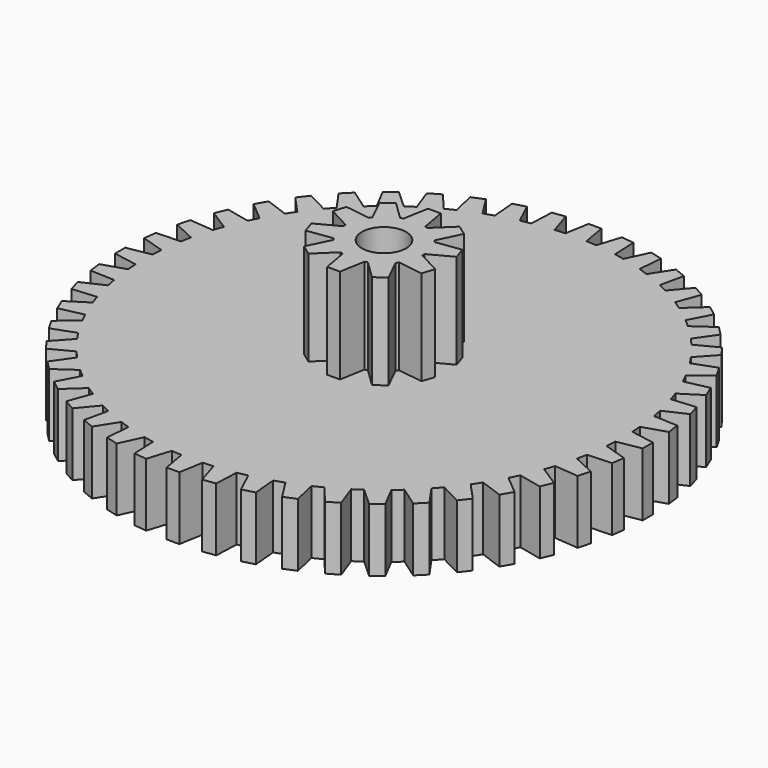
from build123d import *

# Parameters (mm, degrees)
F1_DEPTH = 3
F3_DEPTH = 4.5
F4_R     = 1.05
F5_DEPTH = 7.501


with BuildPart() as f1:
    # F0 (on Top) → F1 (new body)
    with BuildSketch(Plane.XY):
        with BuildLine():
            ThreePointArc((11.332218, -0.98563), (11.350645, -0.743961), (11.36392, -0.501954))
            ThreePointArc((11.36392, -0.501954), (11.37223, -0.251038), (11.375, 0))
            ThreePointArc((11.375, 0), (11.37223, 0.251038), (11.36392, 0.501954))
            ThreePointArc((11.36392, 0.501954), (11.350645, 0.743961), (11.332218, 0.98563))
            ThreePointArc((11.332218, 0.98563), (11.277685, 1.484735), (11.201182, 1.980949))
            ThreePointArc((11.201182, 1.980949), (11.156433, 2.219152), (11.106619, 2.456349))
            ThreePointArc((11.106619, 2.456349), (10.987406, 2.944067), (10.846788, 3.426049))
            ThreePointArc((10.846788, 3.426049), (10.77133, 3.656374), (10.690982, 3.885039))
            ThreePointArc((10.690982, 3.885039), (10.50913, 4.353024), (10.306803, 4.812529))
            ThreePointArc((10.306803, 4.812529), (10.201927, 5.031034), (10.09242, 5.247255))
            ThreePointArc((10.09242, 5.247255), (9.851039, 5.6875), (9.590466, 6.116664))
            ThreePointArc((9.590466, 6.116664), (9.457967, 6.319611), (9.321174, 6.519689))
            ThreePointArc((9.321174, 6.519689), (9.024394, 6.924661), (8.710033, 7.316143))
            ThreePointArc((8.710033, 7.316143), (8.552178, 7.500059), (8.390439, 7.68057))
            ThreePointArc((8.390439, 7.68057), (8.04334, 8.04334), (7.68057, 8.390439))
            ThreePointArc((7.68057, 8.390439), (7.500059, 8.552178), (7.316143, 8.710033))
            ThreePointArc((7.316143, 8.710033), (6.924661, 9.024394), (6.519689, 9.321174))
            ThreePointArc((6.519689, 9.321174), (6.319611, 9.457967), (6.116664, 9.590466))
            ThreePointArc((6.116664, 9.590466), (5.6875, 9.851039), (5.247255, 10.09242))
            ThreePointArc((5.247255, 10.09242), (5.031034, 10.201927), (4.812529, 10.306803))
            ThreePointArc((4.812529, 10.306803), (4.353024, 10.50913), (3.885039, 10.690982))
            ThreePointArc((3.885039, 10.690982), (3.656374, 10.77133), (3.426049, 10.846788))
            ThreePointArc((3.426049, 10.846788), (2.944067, 10.987406), (2.456349, 11.106619))
            ThreePointArc((2.456349, 11.106619), (2.219152, 11.156433), (1.980949, 11.201182))
            ThreePointArc((1.980949, 11.201182), (1.484735, 11.277685), (0.98563, 11.332218))
            ThreePointArc((0.98563, 11.332218), (0.743961, 11.350645), (0.501954, 11.36392))
            ThreePointArc((0.501954, 11.36392), (0, 11.375), (-0.501954, 11.36392))
            ThreePointArc((-0.501954, 11.36392), (-0.743961, 11.350645), (-0.98563, 11.332218))
            ThreePointArc((-0.98563, 11.332218), (-1.484735, 11.277685), (-1.980949, 11.201182))
            ThreePointArc((-1.980949, 11.201182), (-2.219152, 11.156433), (-2.456349, 11.106619))
            ThreePointArc((-2.456349, 11.106619), (-2.944067, 10.987406), (-3.426049, 10.846788))
            ThreePointArc((-3.426049, 10.846788), (-3.656374, 10.77133), (-3.885039, 10.690982))
            ThreePointArc((-3.885039, 10.690982), (-4.353024, 10.50913), (-4.812529, 10.306803))
            ThreePointArc((-4.812529, 10.306803), (-5.031034, 10.201927), (-5.247255, 10.09242))
            ThreePointArc((-5.247255, 10.09242), (-5.6875, 9.851039), (-6.116664, 9.590466))
            ThreePointArc((-6.116664, 9.590466), (-6.319611, 9.457967), (-6.519689, 9.321174))
            ThreePointArc((-6.519689, 9.321174), (-6.924661, 9.024394), (-7.316143, 8.710033))
            ThreePointArc((-7.316143, 8.710033), (-7.500059, 8.552178), (-7.68057, 8.390439))
            ThreePointArc((-7.68057, 8.390439), (-8.04334, 8.04334), (-8.390439, 7.68057))
            ThreePointArc((-8.390439, 7.68057), (-8.552178, 7.500059), (-8.710033, 7.316143))
            ThreePointArc((-8.710033, 7.316143), (-9.024394, 6.924661), (-9.321174, 6.519689))
            ThreePointArc((-9.321174, 6.519689), (-9.457967, 6.319611), (-9.590466, 6.116664))
            ThreePointArc((-9.590466, 6.116664), (-9.851039, 5.6875), (-10.09242, 5.247255))
            ThreePointArc((-10.09242, 5.247255), (-10.201927, 5.031034), (-10.306803, 4.812529))
            ThreePointArc((-10.306803, 4.812529), (-10.50913, 4.353024), (-10.690982, 3.885039))
            ThreePointArc((-10.690982, 3.885039), (-10.77133, 3.656374), (-10.846788, 3.426049))
            ThreePointArc((-10.846788, 3.426049), (-10.987406, 2.944067), (-11.106619, 2.456349))
            ThreePointArc((-11.106619, 2.456349), (-11.156433, 2.219152), (-11.201182, 1.980949))
            ThreePointArc((-11.201182, 1.980949), (-11.277685, 1.484735), (-11.332218, 0.98563))
            ThreePointArc((-11.332218, 0.98563), (-11.350645, 0.743961), (-11.36392, 0.501954))
            ThreePointArc((-11.36392, 0.501954), (-11.375, 0), (-11.36392, -0.501954))
            ThreePointArc((-11.36392, -0.501954), (-11.350645, -0.743961), (-11.332218, -0.98563))
            ThreePointArc((-11.332218, -0.98563), (-11.277685, -1.484735), (-11.201182, -1.980949))
            ThreePointArc((-11.201182, -1.980949), (-11.156433, -2.219152), (-11.106619, -2.456349))
            ThreePointArc((-11.106619, -2.456349), (-10.987406, -2.944067), (-10.846788, -3.426049))
            ThreePointArc((-10.846788, -3.426049), (-10.77133, -3.656374), (-10.690982, -3.885039))
            ThreePointArc((-10.690982, -3.885039), (-10.50913, -4.353024), (-10.306803, -4.812529))
            ThreePointArc((-10.306803, -4.812529), (-10.201927, -5.031034), (-10.09242, -5.247255))
            ThreePointArc((-10.09242, -5.247255), (-9.851039, -5.6875), (-9.590466, -6.116664))
            ThreePointArc((-9.590466, -6.116664), (-9.457967, -6.319611), (-9.321174, -6.519689))
            ThreePointArc((-9.321174, -6.519689), (-9.024394, -6.924661), (-8.710033, -7.316143))
            ThreePointArc((-8.710033, -7.316143), (-8.552178, -7.500059), (-8.390439, -7.68057))
            ThreePointArc((-8.390439, -7.68057), (-8.04334, -8.04334), (-7.68057, -8.390439))
            ThreePointArc((-7.68057, -8.390439), (-7.500059, -8.552178), (-7.316143, -8.710033))
            ThreePointArc((-7.316143, -8.710033), (-6.924661, -9.024394), (-6.519689, -9.321174))
            ThreePointArc((-6.519689, -9.321174), (-6.319611, -9.457967), (-6.116664, -9.590466))
            ThreePointArc((-6.116664, -9.590466), (-5.6875, -9.851039), (-5.247255, -10.09242))
            ThreePointArc((-5.247255, -10.09242), (-5.031034, -10.201927), (-4.812529, -10.306803))
            ThreePointArc((-4.812529, -10.306803), (-4.353024, -10.50913), (-3.885039, -10.690982))
            ThreePointArc((-3.885039, -10.690982), (-3.656374, -10.77133), (-3.426049, -10.846788))
            ThreePointArc((-3.426049, -10.846788), (-2.944067, -10.987406), (-2.456349, -11.106619))
            ThreePointArc((-2.456349, -11.106619), (-2.219152, -11.156433), (-1.980949, -11.201182))
            ThreePointArc((-1.980949, -11.201182), (-1.484735, -11.277685), (-0.98563, -11.332218))
            ThreePointArc((-0.98563, -11.332218), (-0.743961, -11.350645), (-0.501954, -11.36392))
            ThreePointArc((-0.501954, -11.36392), (0, -11.375), (0.501954, -11.36392))
            ThreePointArc((0.501954, -11.36392), (0.743961, -11.350645), (0.98563, -11.332218))
            ThreePointArc((0.98563, -11.332218), (1.484735, -11.277685), (1.980949, -11.201182))
            ThreePointArc((1.980949, -11.201182), (2.219152, -11.156433), (2.456349, -11.106619))
            ThreePointArc((2.456349, -11.106619), (2.944067, -10.987406), (3.426049, -10.846788))
            ThreePointArc((3.426049, -10.846788), (3.656374, -10.77133), (3.885039, -10.690982))
            ThreePointArc((3.885039, -10.690982), (4.353024, -10.50913), (4.812529, -10.306803))
            ThreePointArc((4.812529, -10.306803), (5.031034, -10.201927), (5.247255, -10.09242))
            ThreePointArc((5.247255, -10.09242), (5.6875, -9.851039), (6.116664, -9.590466))
            ThreePointArc((6.116664, -9.590466), (6.319611, -9.457967), (6.519689, -9.321174))
            ThreePointArc((6.519689, -9.321174), (6.924661, -9.024394), (7.316143, -8.710033))
            ThreePointArc((7.316143, -8.710033), (7.500059, -8.552178), (7.68057, -8.390439))
            ThreePointArc((7.68057, -8.390439), (8.04334, -8.04334), (8.390439, -7.68057))
            ThreePointArc((8.390439, -7.68057), (8.552178, -7.500059), (8.710033, -7.316143))
            ThreePointArc((8.710033, -7.316143), (9.024394, -6.924661), (9.321174, -6.519689))
            ThreePointArc((9.321174, -6.519689), (9.457967, -6.319611), (9.590466, -6.116664))
            ThreePointArc((9.590466, -6.116664), (9.851039, -5.6875), (10.09242, -5.247255))
            ThreePointArc((10.09242, -5.247255), (10.201927, -5.031034), (10.306803, -4.812529))
            ThreePointArc((10.306803, -4.812529), (10.50913, -4.353024), (10.690982, -3.885039))
            ThreePointArc((10.690982, -3.885039), (10.77133, -3.656374), (10.846788, -3.426049))
            ThreePointArc((10.846788, -3.426049), (10.987406, -2.944067), (11.106619, -2.456349))
            ThreePointArc((11.106619, -2.456349), (11.156433, -2.219152), (11.201182, -1.980949))
            ThreePointArc((11.201182, -1.980949), (11.277685, -1.484735), (11.332218, -0.98563))
        make_face()
        with BuildLine():
            ThreePointArc((11.375, 0), (11.37223, -0.251038), (11.36392, -0.501954))
            Line((11.36392, -0.501954), (12.496345, -0.302277))
            Line((12.496345, -0.302277), (12.496345, 0.302277))
            Line((12.496345, 0.302277), (11.36392, 0.501954))
            ThreePointArc((11.36392, 0.501954), (11.37223, 0.251038), (11.375, 0))
        make_face()
        with BuildLine():
            Line((12.428892, -1.33141), (11.332218, -0.98563))
            ThreePointArc((11.332218, -0.98563), (11.277685, -1.484735), (11.201182, -1.980949))
            Line((11.201182, -1.980949), (12.349982, -1.930791))
            Line((12.349982, -1.930791), (12.428892, -1.33141))
        make_face()
        with BuildLine():
            ThreePointArc((11.201182, 1.980949), (11.277685, 1.484735), (11.332218, 0.98563))
            Line((11.332218, 0.98563), (12.428892, 1.33141))
            Line((12.428892, 1.33141), (12.349982, 1.930791))
            Line((12.349982, 1.930791), (11.201182, 1.980949))
        make_face()
        with BuildLine():
            Line((12.148777, -2.942315), (11.106619, -2.456349))
            ThreePointArc((11.106619, -2.456349), (10.987406, -2.944067), (10.846788, -3.426049))
            Line((10.846788, -3.426049), (11.992307, -3.526269))
            Line((11.992307, -3.526269), (12.148777, -2.942315))
        make_face()
        with BuildLine():
            ThreePointArc((10.846788, 3.426049), (10.987406, 2.944067), (11.106619, 2.456349))
            Line((11.106619, 2.456349), (12.148777, 2.942315))
            Line((12.148777, 2.942315), (11.992307, 3.526269))
            Line((11.992307, 3.526269), (10.846788, 3.426049))
        make_face()
        with BuildLine():
            Line((11.660793, -4.502877), (10.690982, -3.885039))
            ThreePointArc((10.690982, -3.885039), (10.50913, -4.353024), (10.306803, -4.812529))
            Line((10.306803, -4.812529), (11.429441, -5.061411))
            Line((11.429441, -5.061411), (11.660793, -4.502877))
        make_face()
        with BuildLine():
            ThreePointArc((10.306803, 4.812529), (10.50913, 4.353024), (10.690982, 3.885039))
            Line((10.690982, 3.885039), (11.660793, 4.502877))
            Line((11.660793, 4.502877), (11.429441, 5.061411))
            Line((11.429441, 5.061411), (10.306803, 4.812529))
        make_face()
        with BuildLine():
            Line((10.97329, -5.986393), (10.09242, -5.247255))
            ThreePointArc((10.09242, -5.247255), (9.851039, -5.6875), (9.590466, -6.116664))
            Line((9.590466, -6.116664), (10.671014, -6.509952))
            Line((10.671014, -6.509952), (10.97329, -5.986393))
        make_face()
        with BuildLine():
            ThreePointArc((9.590466, 6.116664), (9.851039, 5.6875), (10.09242, 5.247255))
            Line((10.09242, 5.247255), (10.97329, 5.986393))
            Line((10.97329, 5.986393), (10.671014, 6.509952))
            Line((10.671014, 6.509952), (9.590466, 6.116664))
        make_face()
        with BuildLine():
            Line((10.098031, -7.36748), (9.321174, -6.519689))
            ThreePointArc((9.321174, -6.519689), (9.024394, -6.924661), (8.710033, -7.316143))
            Line((8.710033, -7.316143), (9.730002, -7.847105))
            Line((9.730002, -7.847105), (10.098031, -7.36748))
        make_face()
        with BuildLine():
            ThreePointArc((8.710033, 7.316143), (9.024394, 6.924661), (9.321174, 6.519689))
            Line((9.321174, 6.519689), (10.098031, 7.36748))
            Line((10.098031, 7.36748), (9.730002, 7.847105))
            Line((9.730002, 7.847105), (8.710033, 7.316143))
        make_face()
        with BuildLine():
            Line((9.049992, -8.622508), (8.390439, -7.68057))
            ThreePointArc((8.390439, -7.68057), (8.04334, -8.04334), (7.68057, -8.390439))
            Line((7.68057, -8.390439), (8.622508, -9.049992))
            Line((8.622508, -9.049992), (9.049992, -8.622508))
        make_face()
        with BuildLine():
            ThreePointArc((7.68057, 8.390439), (8.04334, 8.04334), (8.390439, 7.68057))
            Line((8.390439, 7.68057), (9.049992, 8.622508))
            Line((9.049992, 8.622508), (8.622508, 9.049992))
            Line((8.622508, 9.049992), (7.68057, 8.390439))
        make_face()
        with BuildLine():
            Line((7.847105, -9.730002), (7.316143, -8.710033))
            ThreePointArc((7.316143, -8.710033), (6.924661, -9.024394), (6.519689, -9.321174))
            Line((6.519689, -9.321174), (7.36748, -10.098031))
            Line((7.36748, -10.098031), (7.847105, -9.730002))
        make_face()
        with BuildLine():
            ThreePointArc((6.519689, 9.321174), (6.924661, 9.024394), (7.316143, 8.710033))
            Line((7.316143, 8.710033), (7.847105, 9.730002))
            Line((7.847105, 9.730002), (7.36748, 10.098031))
            Line((7.36748, 10.098031), (6.519689, 9.321174))
        make_face()
        with BuildLine():
            Line((6.509952, -10.671014), (6.116664, -9.590466))
            ThreePointArc((6.116664, -9.590466), (5.6875, -9.851039), (5.247255, -10.09242))
            Line((5.247255, -10.09242), (5.986393, -10.97329))
            Line((5.986393, -10.97329), (6.509952, -10.671014))
        make_face()
        with BuildLine():
            ThreePointArc((5.247255, 10.09242), (5.6875, 9.851039), (6.116664, 9.590466))
            Line((6.116664, 9.590466), (6.509952, 10.671014))
            Line((6.509952, 10.671014), (5.986393, 10.97329))
            Line((5.986393, 10.97329), (5.247255, 10.09242))
        make_face()
        with BuildLine():
            Line((5.061411, -11.429441), (4.812529, -10.306803))
            ThreePointArc((4.812529, -10.306803), (4.353024, -10.50913), (3.885039, -10.690982))
            Line((3.885039, -10.690982), (4.502877, -11.660793))
            Line((4.502877, -11.660793), (5.061411, -11.429441))
        make_face()
        with BuildLine():
            ThreePointArc((3.885039, 10.690982), (4.353024, 10.50913), (4.812529, 10.306803))
            Line((4.812529, 10.306803), (5.061411, 11.429441))
            Line((5.061411, 11.429441), (4.502877, 11.660793))
            Line((4.502877, 11.660793), (3.885039, 10.690982))
        make_face()
        with BuildLine():
            Line((3.526269, -11.992307), (3.426049, -10.846788))
            ThreePointArc((3.426049, -10.846788), (2.944067, -10.987406), (2.456349, -11.106619))
            Line((2.456349, -11.106619), (2.942315, -12.148777))
            Line((2.942315, -12.148777), (3.526269, -11.992307))
        make_face()
        with BuildLine():
            ThreePointArc((2.456349, 11.106619), (2.944067, 10.987406), (3.426049, 10.846788))
            Line((3.426049, 10.846788), (3.526269, 11.992307))
            Line((3.526269, 11.992307), (2.942315, 12.148777))
            Line((2.942315, 12.148777), (2.456349, 11.106619))
        make_face()
        with BuildLine():
            Line((1.930791, -12.349982), (1.980949, -11.201182))
            ThreePointArc((1.980949, -11.201182), (1.484735, -11.277685), (0.98563, -11.332218))
            Line((0.98563, -11.332218), (1.33141, -12.428892))
            Line((1.33141, -12.428892), (1.930791, -12.349982))
        make_face()
        with BuildLine():
            ThreePointArc((0.98563, 11.332218), (1.484735, 11.277685), (1.980949, 11.201182))
            Line((1.980949, 11.201182), (1.930791, 12.349982))
            Line((1.930791, 12.349982), (1.33141, 12.428892))
            Line((1.33141, 12.428892), (0.98563, 11.332218))
        make_face()
        with BuildLine():
            Line((0.302277, -12.496345), (0.501954, -11.36392))
            ThreePointArc((0.501954, -11.36392), (0, -11.375), (-0.501954, -11.36392))
            Line((-0.501954, -11.36392), (-0.302277, -12.496345))
            Line((-0.302277, -12.496345), (0.302277, -12.496345))
        make_face()
        with BuildLine():
            ThreePointArc((-0.501954, 11.36392), (0, 11.375), (0.501954, 11.36392))
            Line((0.501954, 11.36392), (0.302277, 12.496345))
            Line((0.302277, 12.496345), (-0.302277, 12.496345))
            Line((-0.302277, 12.496345), (-0.501954, 11.36392))
        make_face()
        with BuildLine():
            Line((-1.33141, -12.428892), (-0.98563, -11.332218))
            ThreePointArc((-0.98563, -11.332218), (-1.484735, -11.277685), (-1.980949, -11.201182))
            Line((-1.980949, -11.201182), (-1.930791, -12.349982))
            Line((-1.930791, -12.349982), (-1.33141, -12.428892))
        make_face()
        with BuildLine():
            ThreePointArc((-1.980949, 11.201182), (-1.484735, 11.277685), (-0.98563, 11.332218))
            Line((-0.98563, 11.332218), (-1.33141, 12.428892))
            Line((-1.33141, 12.428892), (-1.930791, 12.349982))
            Line((-1.930791, 12.349982), (-1.980949, 11.201182))
        make_face()
        with BuildLine():
            Line((-2.942315, -12.148777), (-2.456349, -11.106619))
            ThreePointArc((-2.456349, -11.106619), (-2.944067, -10.987406), (-3.426049, -10.846788))
            Line((-3.426049, -10.846788), (-3.526269, -11.992307))
            Line((-3.526269, -11.992307), (-2.942315, -12.148777))
        make_face()
        with BuildLine():
            ThreePointArc((-3.426049, 10.846788), (-2.944067, 10.987406), (-2.456349, 11.106619))
            Line((-2.456349, 11.106619), (-2.942315, 12.148777))
            Line((-2.942315, 12.148777), (-3.526269, 11.992307))
            Line((-3.526269, 11.992307), (-3.426049, 10.846788))
        make_face()
        with BuildLine():
            Line((-4.502877, -11.660793), (-3.885039, -10.690982))
            ThreePointArc((-3.885039, -10.690982), (-4.353024, -10.50913), (-4.812529, -10.306803))
            Line((-4.812529, -10.306803), (-5.061411, -11.429441))
            Line((-5.061411, -11.429441), (-4.502877, -11.660793))
        make_face()
        with BuildLine():
            ThreePointArc((-4.812529, 10.306803), (-4.353024, 10.50913), (-3.885039, 10.690982))
            Line((-3.885039, 10.690982), (-4.502877, 11.660793))
            Line((-4.502877, 11.660793), (-5.061411, 11.429441))
            Line((-5.061411, 11.429441), (-4.812529, 10.306803))
        make_face()
        with BuildLine():
            Line((-5.986393, -10.97329), (-5.247255, -10.09242))
            ThreePointArc((-5.247255, -10.09242), (-5.6875, -9.851039), (-6.116664, -9.590466))
            Line((-6.116664, -9.590466), (-6.509952, -10.671014))
            Line((-6.509952, -10.671014), (-5.986393, -10.97329))
        make_face()
        with BuildLine():
            ThreePointArc((-6.116664, 9.590466), (-5.6875, 9.851039), (-5.247255, 10.09242))
            Line((-5.247255, 10.09242), (-5.986393, 10.97329))
            Line((-5.986393, 10.97329), (-6.509952, 10.671014))
            Line((-6.509952, 10.671014), (-6.116664, 9.590466))
        make_face()
        with BuildLine():
            Line((-7.36748, -10.098031), (-6.519689, -9.321174))
            ThreePointArc((-6.519689, -9.321174), (-6.924661, -9.024394), (-7.316143, -8.710033))
            Line((-7.316143, -8.710033), (-7.847105, -9.730002))
            Line((-7.847105, -9.730002), (-7.36748, -10.098031))
        make_face()
        with BuildLine():
            ThreePointArc((-7.316143, 8.710033), (-6.924661, 9.024394), (-6.519689, 9.321174))
            Line((-6.519689, 9.321174), (-7.36748, 10.098031))
            Line((-7.36748, 10.098031), (-7.847105, 9.730002))
            Line((-7.847105, 9.730002), (-7.316143, 8.710033))
        make_face()
        with BuildLine():
            Line((-8.622508, -9.049992), (-7.68057, -8.390439))
            ThreePointArc((-7.68057, -8.390439), (-8.04334, -8.04334), (-8.390439, -7.68057))
            Line((-8.390439, -7.68057), (-9.049992, -8.622508))
            Line((-9.049992, -8.622508), (-8.622508, -9.049992))
        make_face()
        with BuildLine():
            ThreePointArc((-8.390439, 7.68057), (-8.04334, 8.04334), (-7.68057, 8.390439))
            Line((-7.68057, 8.390439), (-8.622508, 9.049992))
            Line((-8.622508, 9.049992), (-9.049992, 8.622508))
            Line((-9.049992, 8.622508), (-8.390439, 7.68057))
        make_face()
        with BuildLine():
            Line((-9.730002, -7.847105), (-8.710033, -7.316143))
            ThreePointArc((-8.710033, -7.316143), (-9.024394, -6.924661), (-9.321174, -6.519689))
            Line((-9.321174, -6.519689), (-10.098031, -7.36748))
            Line((-10.098031, -7.36748), (-9.730002, -7.847105))
        make_face()
        with BuildLine():
            ThreePointArc((-9.321174, 6.519689), (-9.024394, 6.924661), (-8.710033, 7.316143))
            Line((-8.710033, 7.316143), (-9.730002, 7.847105))
            Line((-9.730002, 7.847105), (-10.098031, 7.36748))
            Line((-10.098031, 7.36748), (-9.321174, 6.519689))
        make_face()
        with BuildLine():
            Line((-10.671014, -6.509952), (-9.590466, -6.116664))
            ThreePointArc((-9.590466, -6.116664), (-9.851039, -5.6875), (-10.09242, -5.247255))
            Line((-10.09242, -5.247255), (-10.97329, -5.986393))
            Line((-10.97329, -5.986393), (-10.671014, -6.509952))
        make_face()
        with BuildLine():
            ThreePointArc((-10.09242, 5.247255), (-9.851039, 5.6875), (-9.590466, 6.116664))
            Line((-9.590466, 6.116664), (-10.671014, 6.509952))
            Line((-10.671014, 6.509952), (-10.97329, 5.986393))
            Line((-10.97329, 5.986393), (-10.09242, 5.247255))
        make_face()
        with BuildLine():
            Line((-11.429441, -5.061411), (-10.306803, -4.812529))
            ThreePointArc((-10.306803, -4.812529), (-10.50913, -4.353024), (-10.690982, -3.885039))
            Line((-10.690982, -3.885039), (-11.660793, -4.502877))
            Line((-11.660793, -4.502877), (-11.429441, -5.061411))
        make_face()
        with BuildLine():
            ThreePointArc((-10.690982, 3.885039), (-10.50913, 4.353024), (-10.306803, 4.812529))
            Line((-10.306803, 4.812529), (-11.429441, 5.061411))
            Line((-11.429441, 5.061411), (-11.660793, 4.502877))
            Line((-11.660793, 4.502877), (-10.690982, 3.885039))
        make_face()
        with BuildLine():
            Line((-11.992307, -3.526269), (-10.846788, -3.426049))
            ThreePointArc((-10.846788, -3.426049), (-10.987406, -2.944067), (-11.106619, -2.456349))
            Line((-11.106619, -2.456349), (-12.148777, -2.942315))
            Line((-12.148777, -2.942315), (-11.992307, -3.526269))
        make_face()
        with BuildLine():
            ThreePointArc((-11.106619, 2.456349), (-10.987406, 2.944067), (-10.846788, 3.426049))
            Line((-10.846788, 3.426049), (-11.992307, 3.526269))
            Line((-11.992307, 3.526269), (-12.148777, 2.942315))
            Line((-12.148777, 2.942315), (-11.106619, 2.456349))
        make_face()
        with BuildLine():
            Line((-12.349982, -1.930791), (-11.201182, -1.980949))
            ThreePointArc((-11.201182, -1.980949), (-11.277685, -1.484735), (-11.332218, -0.98563))
            Line((-11.332218, -0.98563), (-12.428892, -1.33141))
            Line((-12.428892, -1.33141), (-12.349982, -1.930791))
        make_face()
        with BuildLine():
            ThreePointArc((-11.332218, 0.98563), (-11.277685, 1.484735), (-11.201182, 1.980949))
            Line((-11.201182, 1.980949), (-12.349982, 1.930791))
            Line((-12.349982, 1.930791), (-12.428892, 1.33141))
            Line((-12.428892, 1.33141), (-11.332218, 0.98563))
        make_face()
        with BuildLine():
            Line((-12.496345, -0.302277), (-11.36392, -0.501954))
            ThreePointArc((-11.36392, -0.501954), (-11.375, 0), (-11.36392, 0.501954))
            Line((-11.36392, 0.501954), (-12.496345, 0.302277))
            Line((-12.496345, 0.302277), (-12.496345, -0.302277))
        make_face()
    extrude(amount=F1_DEPTH)

    # F2 (on face) → F3 (join)
    with BuildSketch(Plane.XY.offset(3)):
        with BuildLine():
            ThreePointArc((1.873699, -0.069828), (1.874675, -0.03492), (1.875, 0))
            ThreePointArc((1.875, 0), (1.874675, 0.03492), (1.873699, 0.069828))
            ThreePointArc((1.873699, 0.069828), (1.783231, 0.579407), (1.556898, 1.044841))
            ThreePointArc((1.556898, 1.044841), (1.516907, 1.102097), (1.474811, 1.157825))
            ThreePointArc((1.474811, 1.157825), (1.102097, 1.516907), (0.645415, 1.760416))
            ThreePointArc((0.645415, 1.760416), (0.579407, 1.783231), (0.512595, 1.803572))
            ThreePointArc((0.512595, 1.803572), (0, 1.875), (-0.512595, 1.803572))
            ThreePointArc((-0.512595, 1.803572), (-0.579407, 1.783231), (-0.645415, 1.760416))
            ThreePointArc((-0.645415, 1.760416), (-1.102097, 1.516907), (-1.474811, 1.157825))
            ThreePointArc((-1.474811, 1.157825), (-1.516907, 1.102097), (-1.556898, 1.044841))
            ThreePointArc((-1.556898, 1.044841), (-1.783231, 0.579407), (-1.873699, 0.069828))
            ThreePointArc((-1.873699, 0.069828), (-1.875, 0), (-1.873699, -0.069828))
            ThreePointArc((-1.873699, -0.069828), (-1.783231, -0.579407), (-1.556898, -1.044841))
            ThreePointArc((-1.556898, -1.044841), (-1.516907, -1.102097), (-1.474811, -1.157825))
            ThreePointArc((-1.474811, -1.157825), (-1.102097, -1.516907), (-0.645415, -1.760416))
            ThreePointArc((-0.645415, -1.760416), (-0.579407, -1.783231), (-0.512595, -1.803572))
            ThreePointArc((-0.512595, -1.803572), (0, -1.875), (0.512595, -1.803572))
            ThreePointArc((0.512595, -1.803572), (0.579407, -1.783231), (0.645415, -1.760416))
            ThreePointArc((0.645415, -1.760416), (1.102097, -1.516907), (1.474811, -1.157825))
            ThreePointArc((1.474811, -1.157825), (1.516907, -1.102097), (1.556898, -1.044841))
            ThreePointArc((1.556898, -1.044841), (1.783231, -0.579407), (1.873699, -0.069828))
        make_face()
        with BuildLine():
            ThreePointArc((1.556898, 1.044841), (1.783231, 0.579407), (1.873699, 0.069828))
            Line((1.873699, 0.069828), (2.932501, 0.632803))
            Line((2.932501, 0.632803), (2.744395, 1.211733))
            Line((2.744395, 1.211733), (1.556898, 1.044841))
        make_face()
        with BuildLine():
            Line((2.932501, -0.632803), (1.873699, -0.069828))
            ThreePointArc((1.873699, -0.069828), (1.783231, -0.579407), (1.556898, -1.044841))
            Line((1.556898, -1.044841), (2.744395, -1.211733))
            Line((2.744395, -1.211733), (2.932501, -0.632803))
        make_face()
        with BuildLine():
            ThreePointArc((0.645415, 1.760416), (1.102097, 1.516907), (1.474811, 1.157825))
            Line((1.474811, 1.157825), (2.000491, 2.235629))
            Line((2.000491, 2.235629), (1.508024, 2.593427))
            Line((1.508024, 2.593427), (0.645415, 1.760416))
        make_face()
        with BuildLine():
            Line((2.000491, -2.235629), (1.474811, -1.157825))
            ThreePointArc((1.474811, -1.157825), (1.102097, -1.516907), (0.645415, -1.760416))
            Line((0.645415, -1.760416), (1.508024, -2.593427))
            Line((1.508024, -2.593427), (2.000491, -2.235629))
        make_face()
        with BuildLine():
            ThreePointArc((-0.512595, 1.803572), (0, 1.875), (0.512595, 1.803572))
            Line((0.512595, 1.803572), (0.304362, 2.984521))
            Line((0.304362, 2.984521), (-0.304362, 2.984521))
            Line((-0.304362, 2.984521), (-0.512595, 1.803572))
        make_face()
        with BuildLine():
            Line((0.304362, -2.984521), (0.512595, -1.803572))
            ThreePointArc((0.512595, -1.803572), (0, -1.875), (-0.512595, -1.803572))
            Line((-0.512595, -1.803572), (-0.304362, -2.984521))
            Line((-0.304362, -2.984521), (0.304362, -2.984521))
        make_face()
        with BuildLine():
            ThreePointArc((-1.474811, 1.157825), (-1.102097, 1.516907), (-0.645415, 1.760416))
            Line((-0.645415, 1.760416), (-1.508024, 2.593427))
            Line((-1.508024, 2.593427), (-2.000491, 2.235629))
            Line((-2.000491, 2.235629), (-1.474811, 1.157825))
        make_face()
        with BuildLine():
            Line((-1.508024, -2.593427), (-0.645415, -1.760416))
            ThreePointArc((-0.645415, -1.760416), (-1.102097, -1.516907), (-1.474811, -1.157825))
            Line((-1.474811, -1.157825), (-2.000491, -2.235629))
            Line((-2.000491, -2.235629), (-1.508024, -2.593427))
        make_face()
        with BuildLine():
            ThreePointArc((-1.873699, 0.069828), (-1.783231, 0.579407), (-1.556898, 1.044841))
            Line((-1.556898, 1.044841), (-2.744395, 1.211733))
            Line((-2.744395, 1.211733), (-2.932501, 0.632803))
            Line((-2.932501, 0.632803), (-1.873699, 0.069828))
        make_face()
        with BuildLine():
            Line((-2.744395, -1.211733), (-1.556898, -1.044841))
            ThreePointArc((-1.556898, -1.044841), (-1.783231, -0.579407), (-1.873699, -0.069828))
            Line((-1.873699, -0.069828), (-2.932501, -0.632803))
            Line((-2.932501, -0.632803), (-2.744395, -1.211733))
        make_face()
    extrude(amount=F3_DEPTH)

    # F4 (on face) → F5 (cut, through all)
    with BuildSketch(Plane.XY.offset(7.5)):
        Circle(F4_R)
    extrude(amount=-F5_DEPTH, mode=Mode.SUBTRACT)


solid = f1.part
